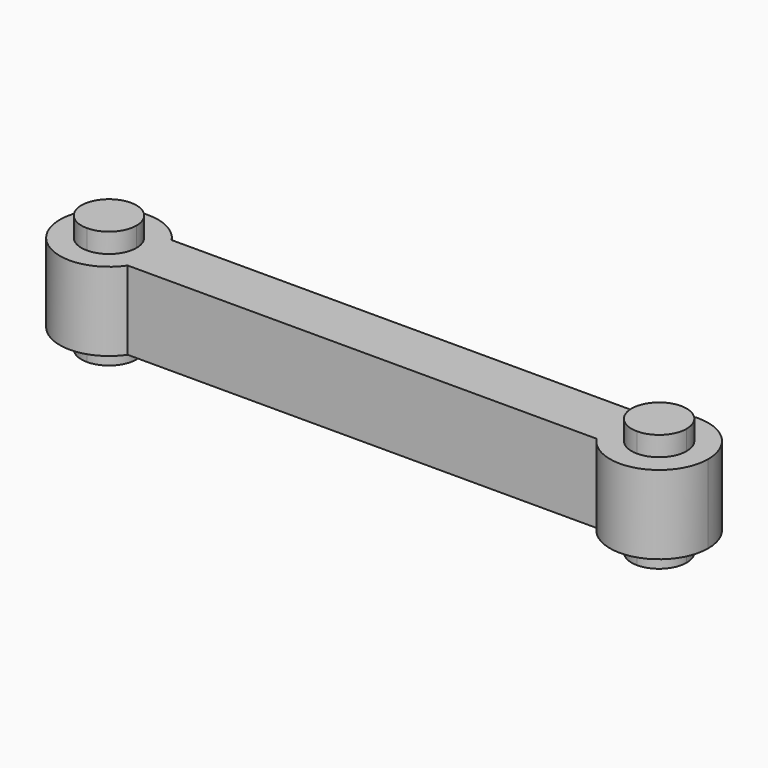
from build123d import *

# Parameters (mm, degrees)
F1_DEPTH = 5
F2_DEPTH = 7.5


with BuildPart() as f1:
    # F0 (on Top) → F1 (new body, symmetric)
    with BuildSketch(Plane.XY):
        with BuildLine():
            Line((-29.821921, 0), (0, 0))
            Line((0, 0), (29.821921, 0))
            ThreePointArc((29.821921, 0), (28.75, 3.5), (29.821921, 7))
            Line((29.821921, 7), (0, 7))
            Line((0, 7), (-29.821921, 7))
            ThreePointArc((-29.821921, 7), (-29.023986, 5.330233), (-28.75, 3.5))
            ThreePointArc((-28.75, 3.5), (-29.023986, 1.669767), (-29.821921, 0))
        make_face()
        with BuildLine():
            Line((35, 0), (29.821921, 0))
            ThreePointArc((29.821921, 0), (36.830233, -2.476014), (41.25, 3.5))
            ThreePointArc((41.25, 3.5), (36.830233, 9.476014), (29.821921, 7))
            Line((29.821921, 7), (35, 7))
            ThreePointArc((35, 7), (37.474874, 5.974874), (38.5, 3.5))
            ThreePointArc((38.5, 3.5), (37.474874, 1.025126), (35, 0))
        make_face()
        with BuildLine():
            ThreePointArc((29.821921, 7), (28.75, 3.5), (29.821921, 0))
            Line((29.821921, 0), (35, 0))
            ThreePointArc((35, 0), (31.5, 3.5), (35, 7))
            Line((35, 7), (29.821921, 7))
        make_face()
        with BuildLine():
            ThreePointArc((-29.821921, 7), (-41.25, 3.5), (-29.821921, 0))
            Line((-29.821921, 0), (-35, 0))
            ThreePointArc((-35, 0), (-38.5, 3.5), (-35, 7))
            Line((-35, 7), (-29.821921, 7))
        make_face()
        with BuildLine():
            Line((-35, 0), (-29.821921, 0))
            ThreePointArc((-29.821921, 0), (-29.023986, 1.669767), (-28.75, 3.5))
            ThreePointArc((-28.75, 3.5), (-29.023986, 5.330233), (-29.821921, 7))
            Line((-29.821921, 7), (-35, 7))
            ThreePointArc((-35, 7), (-32.525126, 5.974874), (-31.5, 3.5))
            ThreePointArc((-31.5, 3.5), (-32.525126, 1.025126), (-35, 0))
        make_face()
    extrude(amount=F1_DEPTH, both=True)

    # F0 (on Top) → F2 (join, symmetric)
    with BuildSketch(Plane.XY):
        with BuildLine():
            ThreePointArc((35, 7), (31.5, 3.5), (35, 0))
            Line((35, 0), (35, 7))
        make_face()
        with BuildLine():
            Line((35, 7), (35, 0))
            ThreePointArc((35, 0), (37.474874, 1.025126), (38.5, 3.5))
            ThreePointArc((38.5, 3.5), (37.474874, 5.974874), (35, 7))
        make_face()
        with BuildLine():
            ThreePointArc((-35, 7), (-38.5, 3.5), (-35, 0))
            Line((-35, 0), (-35, 7))
        make_face()
        with BuildLine():
            Line((-35, 7), (-35, 0))
            ThreePointArc((-35, 0), (-32.525126, 1.025126), (-31.5, 3.5))
            ThreePointArc((-31.5, 3.5), (-32.525126, 5.974874), (-35, 7))
        make_face()
    extrude(amount=F2_DEPTH, both=True)


solid = f1.part
